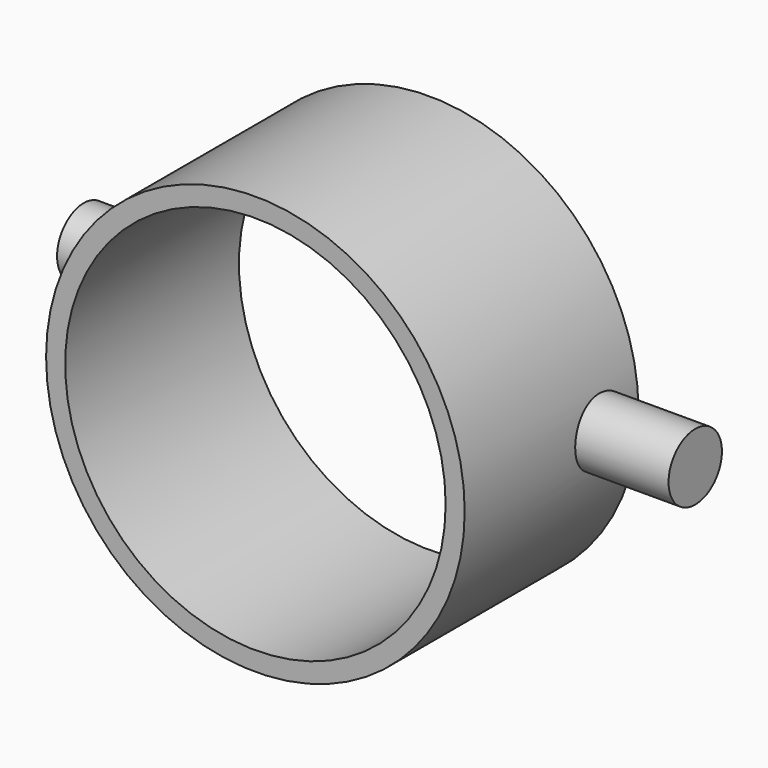
from build123d import *

# Parameters (mm, degrees)
F0_R     = 3.4257116129
F0_R_2   = 3.1136968268
F1_DEPTH = 3.556
F3_START = 3.2004
F2_R     = 0.5461
F3_DEPTH = 1.7526
F4_START = -3.175
F4_DEPTH = 1.8796


with BuildPart() as f1:
    # F0 (on Front) → F1 (new body)
    with BuildSketch(Plane.XZ):
        Circle(F0_R)
        Circle(F0_R_2, mode=Mode.SUBTRACT)
    extrude(amount=F1_DEPTH)

    # F2 (on Right) → F3 (join)
    with BuildSketch(Plane.YZ.offset(F3_START)):
        with Locations((-0.7492110241, 0)):
            Circle(F2_R)
    extrude(amount=F3_DEPTH)

    # F2 (on Right) → F4 (join)
    with BuildSketch(Plane.YZ.offset(F4_START)):
        with Locations((-0.7492110241, 0)):
            Circle(F2_R)
    extrude(amount=-F4_DEPTH)


solid = f1.part
